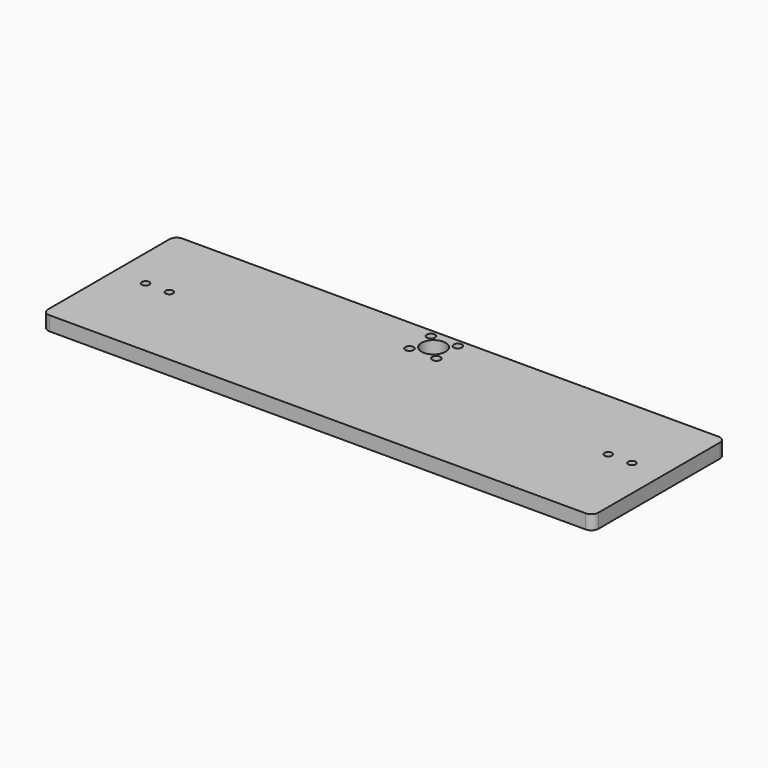
from build123d import *

# Parameters (mm, degrees)
SKETCH_W        = 280
SKETCH_H        = 70
PAD_DEPTH       = 6
SKETCH001_R     = 5.1
SKETCH001_R_2   = 1.75
POCKET_DEPTH    = 6.001
SKETCH002_R     = 1.6
POCKET001_DEPTH = 583.360507
SKETCH003_W     = 24
SKETCH003_H     = 70
POCKET002_DEPTH = 6.001
FILLET_R        = 3


with BuildPart() as part:
    # Sketch → Pad (new body)
    with BuildSketch(Plane.XY):
        Rectangle(SKETCH_W, SKETCH_H)
    extrude(amount=PAD_DEPTH)

    # Sketch001 (on Face6 of Pad) → Pocket (cut, through all)
    with BuildSketch(Plane.XY.offset(6)):
        with Locations((0, 26.15)):
            Circle(SKETCH001_R)
        with Locations((-5.656854, 31.806854)):
            Circle(SKETCH001_R_2)
        with Locations((-5.656854, 20.493146)):
            Circle(SKETCH001_R_2)
        with Locations((5.656854, 31.806854)):
            Circle(SKETCH001_R_2)
        with Locations((5.656854, 20.493146)):
            Circle(SKETCH001_R_2)
    extrude(amount=-POCKET_DEPTH, mode=Mode.SUBTRACT)

    # Sketch002 (on Face5 of Pocket) → Pocket001 (cut, through all)
    with BuildSketch(Plane.XY.offset(6)):
        with Locations((-102.5, 2.5)):
            Circle(SKETCH002_R)
        with Locations((-92.5, 2.5)):
            Circle(SKETCH002_R)
    pocket001 = extrude(amount=-POCKET001_DEPTH, mode=Mode.SUBTRACT)

    # Mirrored: Pocket001 across Sketch002 V_Axis
    add(pocket001.mirror(Plane(origin=(0, 0, 6), x_dir=(0, 0, 1), z_dir=(1, 0, 0))), mode=Mode.SUBTRACT)

    # Sketch003 (on Face5 of Mirrored) → Pocket002 (cut, through all)
    with BuildSketch(Plane.XY.offset(6)):
        with Locations((-128, 0)):
            Rectangle(SKETCH003_W, SKETCH003_H)
        with Locations((128, 0)):
            Rectangle(SKETCH003_W, SKETCH003_H)
    extrude(amount=-POCKET002_DEPTH, mode=Mode.SUBTRACT)

    # Fillet
    fillet_edges = [part.edges().sort_by_distance(p)[0] for p in [
        (116, 35, 3),
        (116, -35, 3),
        (-116, 35, 3),
        (-116, -35, 3),
    ]]
    fillet(fillet_edges, radius=FILLET_R)


solid = part.part
